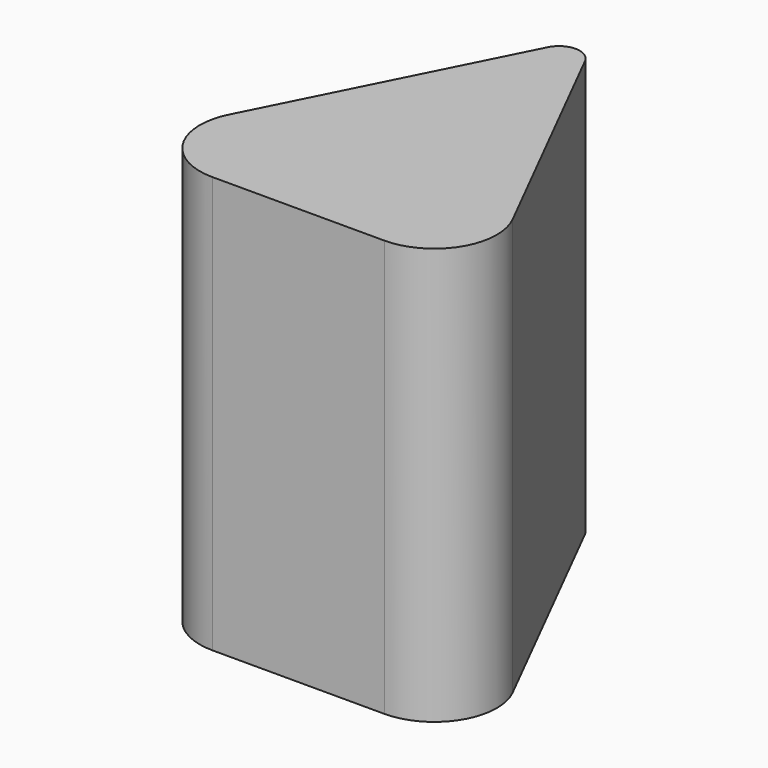
from build123d import *

# Parameters (mm, degrees)
F1_DEPTH = 100
F2_T     = -2.5


with BuildPart() as f1:
    # F0 (on Top) → F1 (new body)
    with BuildSketch(Plane.XY):
        with BuildLine():
            ThreePointArc((-0.997885, 80.441744), (-5.463028, 83.191744), (-9.92817, 80.441744))
            Line((-9.92817, 80.441744), (-39.503132, 21.75))
            ThreePointArc((-39.503132, 21.75), (-38.879743, 7.133934), (-26.107703, 0))
            Line((-26.107703, 0), (15.181648, 0))
            ThreePointArc((15.181648, 0), (27.953688, 7.133934), (28.577077, 21.75))
            Line((28.577077, 21.75), (-0.997885, 80.441744))
        make_face()
    extrude(amount=F1_DEPTH)

    # F2
    f2_openings = [f1.faces().sort_by_distance(p)[0] for p in [
        (-5.463028, 31.232566, 0),
    ]]
    offset(amount=F2_T, openings=f2_openings)


solid = f1.part
